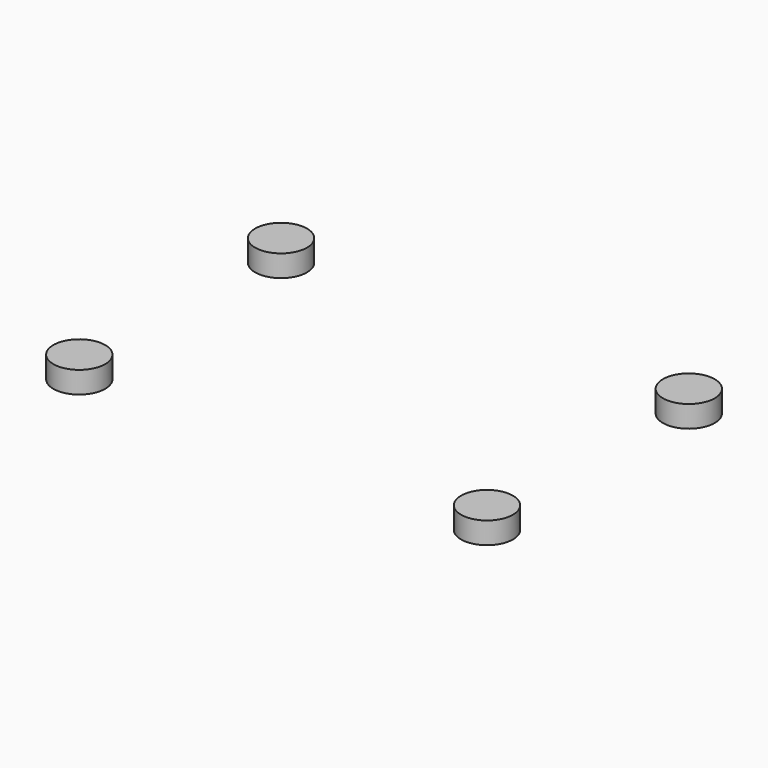
from build123d import *

# Parameters (mm, degrees)
CYLINDER012_R     = 3.75
CYLINDER012_DEPTH = 3.15
CYLINDER013_R     = 3.75
CYLINDER013_DEPTH = 3.15
CYLINDER014_R     = 3.75
CYLINDER014_DEPTH = 3.15
CYLINDER015_R     = 3.75
CYLINDER015_DEPTH = 3.15


with BuildPart() as cylinder012:
    # Cylinder012 → Cylinder012 (new body)
    with BuildSketch(Plane(origin=(7.5, 75.5, 2), x_dir=(1, 0, 0), z_dir=(0, 0, 1))):
        Circle(CYLINDER012_R)
    extrude(amount=CYLINDER012_DEPTH)


with BuildPart() as cylinder013:
    # Cylinder013 → Cylinder013 (new body)
    with BuildSketch(Plane(origin=(66.5, 39, 2), x_dir=(1, 0, 0), z_dir=(0, 0, 1))):
        Circle(CYLINDER013_R)
    extrude(amount=CYLINDER013_DEPTH)


with BuildPart() as cylinder014:
    # Cylinder014 → Cylinder014 (new body)
    with BuildSketch(Plane(origin=(7.5, 39, 2), x_dir=(1, 0, 0), z_dir=(0, 0, 1))):
        Circle(CYLINDER014_R)
    extrude(amount=CYLINDER014_DEPTH)


with BuildPart() as m4headbottomcut:
    # Cylinder015 → Cylinder015 (new body)
    with BuildSketch(Plane(origin=(66.5, 75.5, 2), x_dir=(1, 0, 0), z_dir=(0, 0, 1))):
        Circle(CYLINDER015_R)
    extrude(amount=CYLINDER015_DEPTH)

    # Fusion007: union Cylinder012, Cylinder013, Cylinder014
    add(cylinder012.part)
    add(cylinder013.part)
    add(cylinder014.part)


with BuildPart() as m4headbottomcut_1:
    # Fusion007 placement: moved
    add(m4headbottomcut.part.moved(Location((0, 0, -2))))


solid = m4headbottomcut_1.part
